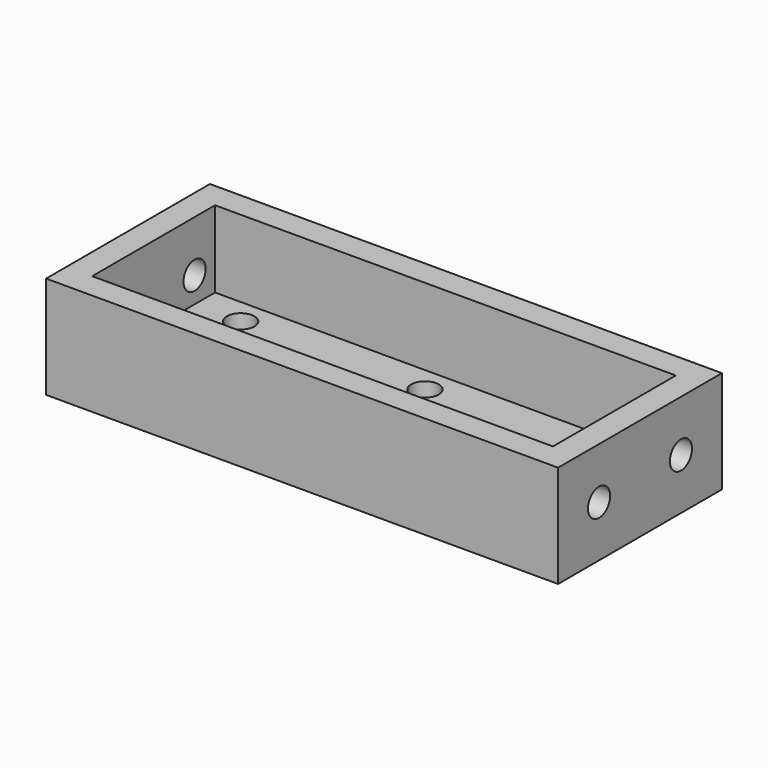
from build123d import *

# Parameters (mm, degrees)
SKETCH079_W     = 100
SKETCH079_H     = 40
PAD064_DEPTH    = 5
SKETCH080_W     = 5
SKETCH080_H     = 40
PAD065_DEPTH    = 15
SKETCH081_R     = 2.7
POCKET019_DEPTH = 100.001
SKETCH082_R     = 2.7
POCKET020_DEPTH = 5
SKETCH089_W     = 90
SKETCH089_H     = 5
PAD072_DEPTH    = 15


with BuildPart() as part:
    # Sketch079 → Pad064 (new body)
    with BuildSketch(Plane.XY):
        with Locations((50, 20)):
            Rectangle(SKETCH079_W, SKETCH079_H)
    extrude(amount=PAD064_DEPTH)

    # Sketch080 (on Face6 of Pad064) → Pad065 (join)
    with BuildSketch(Plane.XY.offset(5)):
        with Locations((2.5, 20)):
            Rectangle(SKETCH080_W, SKETCH080_H)
        with Locations((97.5, 20)):
            Rectangle(SKETCH080_W, SKETCH080_H)
    extrude(amount=PAD065_DEPTH)

    # Sketch081 (on Face5 of Pad065) → Pocket019 (cut, through all)
    with BuildSketch(Plane(origin=(0, 0, 0), x_dir=(0, -1, 0), z_dir=(-1, 0, 0))):
        with Locations((-30, 10)):
            Circle(SKETCH081_R)
        with Locations((-10, 10)):
            Circle(SKETCH081_R)
    extrude(amount=-POCKET019_DEPTH, mode=Mode.SUBTRACT)

    # Sketch082 (on Face8 of Pocket019) → Pocket020 (cut)
    with BuildSketch(Plane.XY.offset(5)):
        with Locations((14, 30)):
            Circle(SKETCH082_R)
        with Locations((14, 10)):
            Circle(SKETCH082_R)
        with Locations((86, 30)):
            Circle(SKETCH082_R)
        with Locations((86, 10)):
            Circle(SKETCH082_R)
        with Locations((50, 30)):
            Circle(SKETCH082_R)
        with Locations((50, 10)):
            Circle(SKETCH082_R)
    extrude(amount=-POCKET020_DEPTH, mode=Mode.SUBTRACT)

    # Sketch089 (on Face8 of Pocket020) → Pad072 (join)
    with BuildSketch(Plane.XY.offset(5)):
        with Locations((50, 37.5)):
            Rectangle(SKETCH089_W, SKETCH089_H)
        with Locations((50, 2.5)):
            Rectangle(SKETCH089_W, SKETCH089_H)
    extrude(amount=PAD072_DEPTH)


solid = part.part
